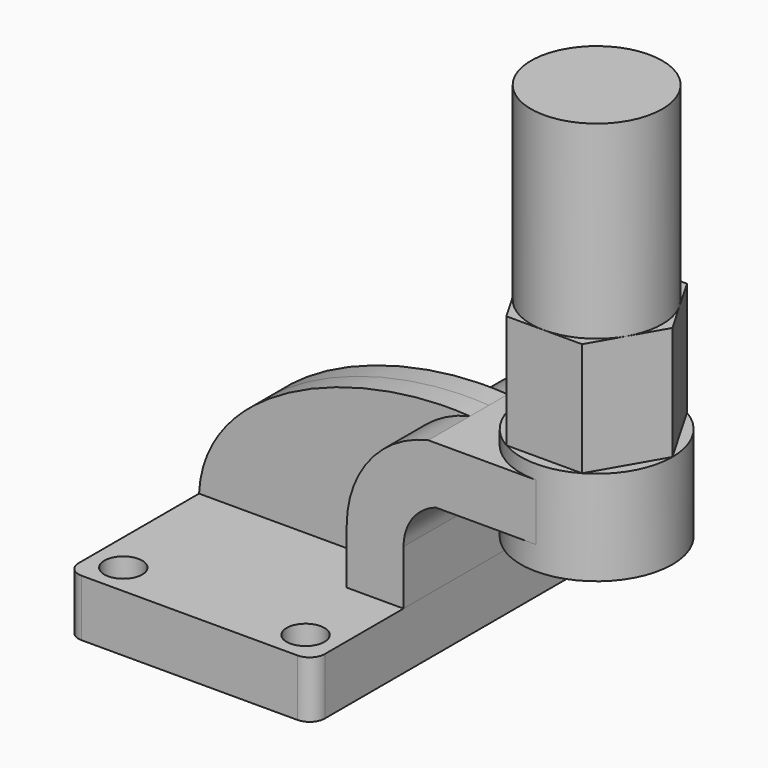
from build123d import *

# Parameters (mm, degrees)
F1_DEPTH  = 63.5
F0_W      = 25.4
F0_H      = 19.05
F2_DEPTH  = 25.4
F3_DEPTH  = 7.9375
F5_R      = 5.08
F7_D      = 12.7
F7_DEPTH  = 9.526
F8_D      = 12.7
F10_DEPTH = 38.1
F11_R     = 21.9970452561
F12_DEPTH = 63.5


with BuildPart() as f1:
    # F0 (on Front) → F1 (new body, symmetric)
    with BuildSketch(Plane.XZ):
        Polygon((-41.275, 9.525), (-41.275, -9.525), (41.275, -9.525), (41.275, 9.525), (22.225, 9.525), align=None)
    extrude(amount=F1_DEPTH, both=True)

    # F0 (on Front) → F3 (join, symmetric)
    with BuildSketch(Plane.XZ):
        with BuildLine():
            add(Edge.make_bspline(
                [(-41.275, 9.525), (-39.5751334727, 44.5398315787), (10.8261717876, 64.5929351449), (49.5941065045, 61.9252)],
                knots=[0, 0, 0, 0, 104.8950688877, 104.8950688877, 104.8950688877, 104.8950688877], degree=3))
            Line((-41.275, 9.525), (22.225, 9.525))
            Line((22.225, 9.525), (22.225, 27.8273393855))
            ThreePointArc((22.225, 27.8273393855), (29.9135794814, 49.6890186974), (49.5941065045, 61.9252))
        make_face()
    extrude(amount=F3_DEPTH, both=True)

    # F5
    f5_edges = [f1.edges().sort_by_distance(p)[0] for p in [
        (41.275, -63.5, 0),
        (-41.275, -63.5, 0),
        (41.275, 63.5, 0),
        (-41.275, 63.5, 0),
    ]]
    fillet(f5_edges, radius=F5_R)

    # F7 (through all, one way)
    with BuildSketch(Plane.XY):
        with Locations((30.559932813, 53.0814602971), (-30.559932813, 53.0814602971), (-30.559932813, -53.0814602971), (30.559932813, -53.0814602971)):
            Circle(F7_D / 2)
    extrude(amount=-F7_DEPTH, mode=Mode.SUBTRACT)

    # F8 (through all)
    with Locations(Plane(origin=(0, 0, 0), x_dir=(1, 0, 0), z_dir=(0, 0, -1))):
        with Locations((-30.559932813, -53.0814602971), (30.559932813, -53.0814602971), (-30.559932813, 53.0814602971), (30.559932813, 53.0814602971)):
            Hole(F8_D / 2)


with BuildPart() as f2:
    # F0 (on Front) → F2 (new body, symmetric)
    with BuildSketch(Plane.XZ):
        with BuildLine():
            Line((22.225, 9.525), (41.275, 9.525))
            Line((41.275, 9.525), (41.275, 27.8273393855))
            ThreePointArc((41.275, 27.8273393855), (44.2600388457, 37.0936507574), (52.0925781343, 42.8752))
            Line((52.0925781343, 42.8752), (60.325, 42.8752))
            Line((60.325, 42.8752), (60.325, 61.9252))
            Line((60.325, 61.9252), (49.5941065045, 61.9252))
            ThreePointArc((49.5941065045, 61.9252), (29.9135794814, 49.6890186974), (22.225, 27.8273393855))
            Line((22.225, 27.8273393855), (22.225, 9.525))
        make_face()
        with Locations((73.025, 52.4002)):
            Rectangle(F0_W, F0_H)
    extrude(amount=F2_DEPTH, both=True)


with BuildPart() as f4:
    # F0 (on Front) → F4 (revolve)
    with BuildSketch(Plane.XZ):
        Polygon((85.725, 66.675), (85.725, 61.9252), (85.725, 42.8752), (85.725, 34.925), (111.125, 34.925), (111.125, 66.675), align=None)
    revolve(axis=Axis((85.725, 0, 50.8), (0, 0, -1)))

    # F9 (on face) → F10 (join)
    with BuildSketch(Plane.XY.offset(66.675)):
        Polygon((98.425, -21.9970452561), (111.125, 0), (98.425, 21.9970452561), (73.025, 21.9970452561), (60.325, 0), (73.025, -21.9970452561), align=None)
    extrude(amount=F10_DEPTH)

    # F11 (on face) → F12 (join)
    with BuildSketch(Plane.XY.offset(104.775)):
        with Locations((85.725, 0)):
            Circle(F11_R)
    extrude(amount=F12_DEPTH)


solid = Compound([f1.part, f2.part, f4.part])
